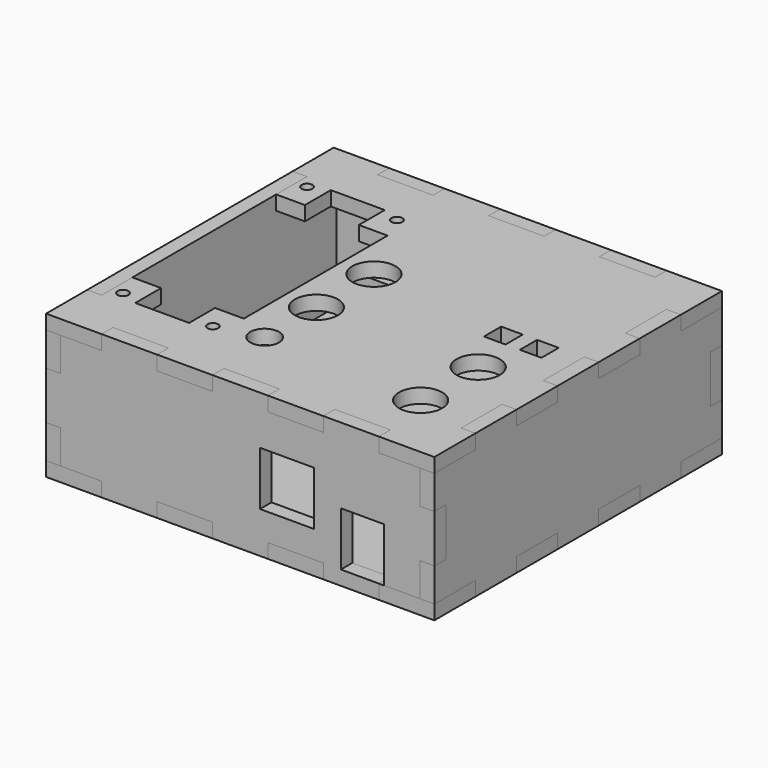
from build123d import *

# Parameters (mm, degrees)
SKETCH_W        = 108
SKETCH_H        = 100
PAD_DEPTH       = 4
SKETCH002_W     = 15.428572
SKETCH002_H     = 4
SKETCH002_W_2   = 4
SKETCH002_H_2   = 14.285715
SKETCH002_H_3   = 14.285714
POCKET_DEPTH    = 4
SKETCH003_R     = 1.5
SKETCH003_W     = 16
SKETCH003_H     = 4
POCKET001_DEPTH = 4
SKETCH004_W     = 108
SKETCH004_H     = 40
PAD001_DEPTH    = 4
SKETCH005_W     = 15.428571
SKETCH005_H     = 4
POCKET002_DEPTH = 4
SKETCH006_W     = 4
SKETCH006_H     = 13.333333
POCKET003_DEPTH = 4
SKETCH031_W     = 12
SKETCH031_H     = 15
SKETCH031_W_2   = 15
POCKET022_DEPTH = 4
SKETCH010_W     = 100
SKETCH010_H     = 40
PAD003_DEPTH    = 4
SKETCH011_W     = 14.285714
SKETCH011_H     = 4
POCKET006_DEPTH = 4
SKETCH012_W     = 4
SKETCH012_H     = 13.333334
POCKET007_DEPTH = 4
SKETCH016_W     = 108
SKETCH016_H     = 100
PAD005_DEPTH    = 4
SKETCH017_W     = 15.428572
SKETCH017_H     = 4
SKETCH017_W_2   = 4
SKETCH017_H_2   = 14.285715
SKETCH017_H_3   = 14.285714
POCKET010_DEPTH = 4
SKETCH026_R     = 6
POCKET017_DEPTH = 4
SKETCH027_W     = 6
SKETCH027_H     = 6
POCKET018_DEPTH = 4
SKETCH028_R     = 4
POCKET019_DEPTH = 4
POCKET020_DEPTH = 4
SKETCH030_R     = 1.5
POCKET021_DEPTH = 4
SKETCH018_W     = 100
SKETCH018_H     = 40
PAD006_DEPTH    = 4
SKETCH019_W     = 14.285714
SKETCH019_H     = 4
POCKET011_DEPTH = 4
SKETCH020_W     = 4
SKETCH020_H     = 13.333334
POCKET012_DEPTH = 4
SKETCH021_W     = 108
SKETCH021_H     = 40
PAD007_DEPTH    = 4
SKETCH022_W     = 15.428571
SKETCH022_H     = 4
POCKET013_DEPTH = 4
SKETCH023_W     = 4
SKETCH023_H     = 13.333333
POCKET014_DEPTH = 4
SKETCH025_W     = 90
SKETCH025_H     = 3
POCKET016_DEPTH = 4


with BuildPart() as backplate:
    # Sketch → Pad (new body)
    with BuildSketch(Plane.XY):
        Rectangle(SKETCH_W, SKETCH_H)
    extrude(amount=PAD_DEPTH)

    # Sketch002 (on Face6 of Pad) → Pocket (cut)
    with BuildSketch(Plane.XY.offset(4)):
        with Locations((-30.857143, 48)):
            Rectangle(SKETCH002_W, SKETCH002_H)
        with Locations((0, 48)):
            Rectangle(SKETCH002_W, SKETCH002_H)
        with Locations((30.857143, 48)):
            Rectangle(SKETCH002_W, SKETCH002_H)
        with Locations((-52, 28.571428)):
            Rectangle(SKETCH002_W_2, SKETCH002_H_2)
        with Locations((-52, 0)):
            Rectangle(SKETCH002_W_2, SKETCH002_H_3)
        with Locations((-52, -28.571428)):
            Rectangle(SKETCH002_W_2, SKETCH002_H_2)
        with Locations((52, 28.571428)):
            Rectangle(SKETCH002_W_2, SKETCH002_H_2)
        with Locations((52, 0)):
            Rectangle(SKETCH002_W_2, SKETCH002_H_3)
        with Locations((52, -28.571428)):
            Rectangle(SKETCH002_W_2, SKETCH002_H_2)
        with Locations((30.857143, -48)):
            Rectangle(SKETCH002_W, SKETCH002_H)
        with Locations((0, -48)):
            Rectangle(SKETCH002_W, SKETCH002_H)
        with Locations((-30.857143, -48)):
            Rectangle(SKETCH002_W, SKETCH002_H)
    extrude(amount=-POCKET_DEPTH, mode=Mode.SUBTRACT)

    # Sketch003 (on Face4 of Pocket) → Pocket001 (cut)
    with BuildSketch(Plane.XY.offset(4)):
        with Locations((-46, -42)):
            Circle(SKETCH003_R)
        with Locations((-46, 14)):
            Circle(SKETCH003_R)
        with Locations((46, 14)):
            Circle(SKETCH003_R)
        with Locations((46, -42)):
            Circle(SKETCH003_R)
        with Locations((-37.5, 22)):
            Rectangle(SKETCH003_W, SKETCH003_H)
        with Locations((37.5, 22)):
            Rectangle(SKETCH003_W, SKETCH003_H)
    extrude(amount=-POCKET001_DEPTH, mode=Mode.SUBTRACT)


with BuildPart() as bottomplate:
    # Sketch004 → Pad001 (new body)
    with BuildSketch(Plane.XZ):
        with Locations((0, 20)):
            Rectangle(SKETCH004_W, SKETCH004_H)
    extrude(amount=PAD001_DEPTH)

    # Sketch005 (on Face6 of Pad001) → Pocket002 (cut)
    with BuildSketch(Plane.XZ.offset(4)):
        with Locations((-46.285714, 38)):
            Rectangle(SKETCH005_W, SKETCH005_H)
        with Locations((46.285714, 38)):
            Rectangle(SKETCH005_W, SKETCH005_H)
        with Locations((15.428572, 38)):
            Rectangle(SKETCH005_W, SKETCH005_H)
        with Locations((-15.428572, 38)):
            Rectangle(SKETCH005_W, SKETCH005_H)
        with Locations((-46.285714, 2)):
            Rectangle(SKETCH005_W, SKETCH005_H)
        with Locations((-15.428572, 2)):
            Rectangle(SKETCH005_W, SKETCH005_H)
        with Locations((15.428572, 2)):
            Rectangle(SKETCH005_W, SKETCH005_H)
        with Locations((46.285714, 2)):
            Rectangle(SKETCH005_W, SKETCH005_H)
    extrude(amount=-POCKET002_DEPTH, mode=Mode.SUBTRACT)

    # Sketch006 (on Face4 of Pocket002) → Pocket003 (cut)
    with BuildSketch(Plane.XZ.offset(4)):
        with Locations((52, 33.333334)):
            Rectangle(SKETCH006_W, SKETCH006_H)
        with Locations((52, 6.666666)):
            Rectangle(SKETCH006_W, SKETCH006_H)
        with Locations((-52, 6.666666)):
            Rectangle(SKETCH006_W, SKETCH006_H)
        with Locations((-52, 33.333334)):
            Rectangle(SKETCH006_W, SKETCH006_H)
    extrude(amount=-POCKET003_DEPTH, mode=Mode.SUBTRACT)

    # Sketch031 (on Face4 of Pocket003) → Pocket022 (cut)
    with BuildSketch(Plane.XZ.offset(4)):
        with Locations((34, 11.5)):
            Rectangle(SKETCH031_W, SKETCH031_H)
        with Locations((13, 19)):
            Rectangle(SKETCH031_W_2, SKETCH031_H)
    extrude(amount=-POCKET022_DEPTH, mode=Mode.SUBTRACT)


with BuildPart() as bottomplate_1:
    # Body001 placement: moved
    add(bottomplate.part.moved(Location((0, -46, 0))))


with BuildPart() as leftside:
    # Sketch010 → Pad003 (new body)
    with BuildSketch(Plane.YZ):
        with Locations((0, 20)):
            Rectangle(SKETCH010_W, SKETCH010_H)
    extrude(amount=PAD003_DEPTH)

    # Sketch011 (on Face5 of Pad003) → Pocket006 (cut)
    with BuildSketch(Plane(origin=(0, 0, 0), x_dir=(0, 1, 0), z_dir=(-1, 0, 0))):
        with Locations((-42.857143, -2)):
            Rectangle(SKETCH011_W, SKETCH011_H)
        with Locations((-14.285714, -2)):
            Rectangle(SKETCH011_W, SKETCH011_H)
        with Locations((14.285714, -2)):
            Rectangle(SKETCH011_W, SKETCH011_H)
        with Locations((42.857143, -2)):
            Rectangle(SKETCH011_W, SKETCH011_H)
        with Locations((-42.857143, -38)):
            Rectangle(SKETCH011_W, SKETCH011_H)
        with Locations((42.857143, -38)):
            Rectangle(SKETCH011_W, SKETCH011_H)
    extrude(amount=-POCKET006_DEPTH, mode=Mode.SUBTRACT)

    # Sketch012 (on Face2 of Pocket006) → Pocket007 (cut)
    with BuildSketch(Plane(origin=(0, 0, 0), x_dir=(0, 1, 0), z_dir=(-1, 0, 0))):
        with Locations((-48, -20)):
            Rectangle(SKETCH012_W, SKETCH012_H)
        with Locations((48, -20)):
            Rectangle(SKETCH012_W, SKETCH012_H)
    extrude(amount=-POCKET007_DEPTH, mode=Mode.SUBTRACT)


with BuildPart() as leftside_1:
    # Body003 placement: moved
    add(leftside.part.moved(Location((-54, 0, 0))))


with BuildPart() as frontplate:
    # Sketch016 → Pad005 (new body)
    with BuildSketch(Plane.XY):
        Rectangle(SKETCH016_W, SKETCH016_H)
    extrude(amount=PAD005_DEPTH)

    # Sketch017 (on Face6 of Pad005) → Pocket010 (cut)
    with BuildSketch(Plane.XY.offset(4)):
        with Locations((-30.857143, 48)):
            Rectangle(SKETCH017_W, SKETCH017_H)
        with Locations((0, 48)):
            Rectangle(SKETCH017_W, SKETCH017_H)
        with Locations((30.857143, 48)):
            Rectangle(SKETCH017_W, SKETCH017_H)
        Polygon((-54, 35.714286), (-50, 35.714286), (-50, 21.428571), (-50, 7.142857), (-50, -7.142857), (-50, -21.428571), (-50, -35.714286), (-54, -35.714286), (-54, -21.428571), (-54, -7.142857), (-54, 7.142857), (-54, 21.428571), align=None)
        with Locations((52, 28.571428)):
            Rectangle(SKETCH017_W_2, SKETCH017_H_2)
        with Locations((52, 0)):
            Rectangle(SKETCH017_W_2, SKETCH017_H_3)
        with Locations((52, -28.571428)):
            Rectangle(SKETCH017_W_2, SKETCH017_H_2)
        with Locations((30.857143, -48)):
            Rectangle(SKETCH017_W, SKETCH017_H)
        with Locations((0, -48)):
            Rectangle(SKETCH017_W, SKETCH017_H)
        with Locations((-30.857143, -48)):
            Rectangle(SKETCH017_W, SKETCH017_H)
    extrude(amount=-POCKET010_DEPTH, mode=Mode.SUBTRACT)

    # Sketch026 (on Face4 of Pocket010) → Pocket017 (cut)
    with BuildSketch(Plane.XY.offset(4)):
        with Locations((35, -11)):
            Circle(SKETCH026_R)
        with Locations((35, -31)):
            Circle(SKETCH026_R)
        with Locations((-10, 9)):
            Circle(SKETCH026_R)
        with Locations((-10, -11)):
            Circle(SKETCH026_R)
    extrude(amount=-POCKET017_DEPTH, mode=Mode.SUBTRACT)

    # Sketch027 (on Face4 of Pocket017) → Pocket018 (cut)
    with BuildSketch(Plane.XY.offset(4)):
        with Locations((30, 4)):
            Rectangle(SKETCH027_W, SKETCH027_H)
        with Locations((40, 4)):
            Rectangle(SKETCH027_W, SKETCH027_H)
    extrude(amount=-POCKET018_DEPTH, mode=Mode.SUBTRACT)

    # Sketch028 (on Face4 of Pocket018) → Pocket019 (cut)
    with BuildSketch(Plane.XY.offset(4)):
        with Locations((-10, -29)):
            Circle(SKETCH028_R)
    extrude(amount=-POCKET019_DEPTH, mode=Mode.SUBTRACT)

    # Sketch029 (on Face4 of Pocket019) → Pocket020 (cut)
    with BuildSketch(Plane.XY.offset(4)):
        Polygon((-50, 25), (-50, -25), (-42, -25), (-42, -34), (-27, -34), (-27, -25), (-19, -25), (-19, 25), (-27, 25), (-27, 34), (-42, 34), (-42, 25), align=None)
    extrude(amount=-POCKET020_DEPTH, mode=Mode.SUBTRACT)

    # Sketch030 (on Face4 of Pocket020) → Pocket021 (cut)
    with BuildSketch(Plane.XY.offset(4)):
        with Locations((-47, 32)):
            Circle(SKETCH030_R)
        with Locations((-22, 32)):
            Circle(SKETCH030_R)
        with Locations((-47, -32)):
            Circle(SKETCH030_R)
        with Locations((-22, -32)):
            Circle(SKETCH030_R)
    extrude(amount=-POCKET021_DEPTH, mode=Mode.SUBTRACT)


with BuildPart() as frontplate_1:
    # Body005 placement: moved
    add(frontplate.part.moved(Location((0, 0, 36))))


with BuildPart() as rightside:
    # Sketch018 → Pad006 (new body)
    with BuildSketch(Plane.YZ):
        with Locations((0, 20)):
            Rectangle(SKETCH018_W, SKETCH018_H)
    extrude(amount=PAD006_DEPTH)

    # Sketch019 (on Face5 of Pad006) → Pocket011 (cut)
    with BuildSketch(Plane(origin=(0, 0, 0), x_dir=(0, 1, 0), z_dir=(-1, 0, 0))):
        with Locations((-42.857143, -2)):
            Rectangle(SKETCH019_W, SKETCH019_H)
        with Locations((-14.285714, -2)):
            Rectangle(SKETCH019_W, SKETCH019_H)
        with Locations((14.285714, -2)):
            Rectangle(SKETCH019_W, SKETCH019_H)
        with Locations((42.857143, -2)):
            Rectangle(SKETCH019_W, SKETCH019_H)
        with Locations((-42.857143, -38)):
            Rectangle(SKETCH019_W, SKETCH019_H)
        with Locations((-14.285714, -38)):
            Rectangle(SKETCH019_W, SKETCH019_H)
        with Locations((14.285714, -38)):
            Rectangle(SKETCH019_W, SKETCH019_H)
        with Locations((42.857143, -38)):
            Rectangle(SKETCH019_W, SKETCH019_H)
    extrude(amount=-POCKET011_DEPTH, mode=Mode.SUBTRACT)

    # Sketch020 (on Face2 of Pocket011) → Pocket012 (cut)
    with BuildSketch(Plane(origin=(0, 0, 0), x_dir=(0, 1, 0), z_dir=(-1, 0, 0))):
        with Locations((-48, -20)):
            Rectangle(SKETCH020_W, SKETCH020_H)
        with Locations((48, -20)):
            Rectangle(SKETCH020_W, SKETCH020_H)
    extrude(amount=-POCKET012_DEPTH, mode=Mode.SUBTRACT)


with BuildPart() as rightside_1:
    # Body006 placement: moved
    add(rightside.part.moved(Location((50, 0, 0))))


with BuildPart() as topside:
    # Sketch021 → Pad007 (new body)
    with BuildSketch(Plane.XZ):
        with Locations((0, 20)):
            Rectangle(SKETCH021_W, SKETCH021_H)
    extrude(amount=PAD007_DEPTH)

    # Sketch022 (on Face6 of Pad007) → Pocket013 (cut)
    with BuildSketch(Plane.XZ.offset(4)):
        with Locations((-46.285714, 38)):
            Rectangle(SKETCH022_W, SKETCH022_H)
        with Locations((46.285714, 38)):
            Rectangle(SKETCH022_W, SKETCH022_H)
        with Locations((15.428572, 38)):
            Rectangle(SKETCH022_W, SKETCH022_H)
        with Locations((-15.428572, 38)):
            Rectangle(SKETCH022_W, SKETCH022_H)
        with Locations((-46.285714, 2)):
            Rectangle(SKETCH022_W, SKETCH022_H)
        with Locations((-15.428572, 2)):
            Rectangle(SKETCH022_W, SKETCH022_H)
        with Locations((15.428572, 2)):
            Rectangle(SKETCH022_W, SKETCH022_H)
        with Locations((46.285714, 2)):
            Rectangle(SKETCH022_W, SKETCH022_H)
    extrude(amount=-POCKET013_DEPTH, mode=Mode.SUBTRACT)

    # Sketch023 (on Face4 of Pocket013) → Pocket014 (cut)
    with BuildSketch(Plane.XZ.offset(4)):
        with Locations((52, 33.333334)):
            Rectangle(SKETCH023_W, SKETCH023_H)
        with Locations((52, 6.666666)):
            Rectangle(SKETCH023_W, SKETCH023_H)
        with Locations((-52, 6.666666)):
            Rectangle(SKETCH023_W, SKETCH023_H)
        with Locations((-52, 33.333334)):
            Rectangle(SKETCH023_W, SKETCH023_H)
    extrude(amount=-POCKET014_DEPTH, mode=Mode.SUBTRACT)

    # Sketch025 (on Face2 of Pocket014) → Pocket016 (cut)
    with BuildSketch(Plane(origin=(0, 0, 0), x_dir=(1, 0, 0), z_dir=(0, 1, 0))):
        with Locations((0, -15.5)):
            Rectangle(SKETCH025_W, SKETCH025_H)
    extrude(amount=-POCKET016_DEPTH, mode=Mode.SUBTRACT)


with BuildPart() as topside_1:
    # Body007 placement: moved
    add(topside.part.moved(Location((0, 50, 0))))


solid = Compound([backplate.part, bottomplate_1.part, leftside_1.part, frontplate_1.part, rightside_1.part, topside_1.part])
